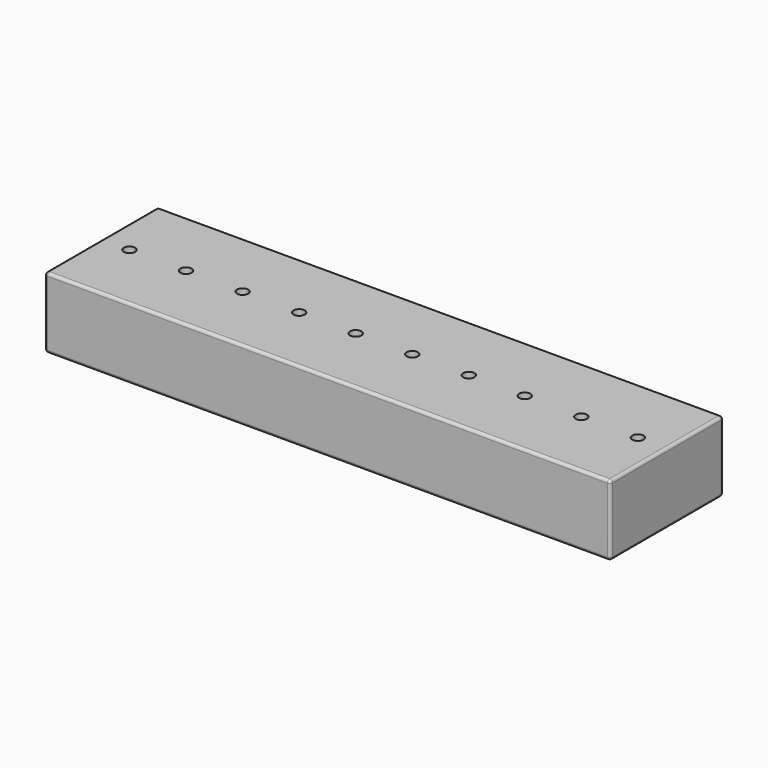
from build123d import *

# Parameters (mm, degrees)
F0_W     = 101.6
F0_H     = 25.4
F0_R     = 1.016
F1_DEPTH = 12.7
F2_R     = 0.508


with BuildPart() as f1:
    # F0 (on Top) → F1 (new body)
    with BuildSketch(Plane.XY):
        with Locations((-11.150051, 5.733814)):
            Rectangle(F0_W, F0_H)
        with Locations((-56.870051, 5.733814)):
            Circle(F0_R, mode=Mode.SUBTRACT)
        with Locations((-46.710051, 5.733814)):
            Circle(F0_R, mode=Mode.SUBTRACT)
        with Locations((-36.550051, 5.733814)):
            Circle(F0_R, mode=Mode.SUBTRACT)
        with Locations((-26.390051, 5.733814)):
            Circle(F0_R, mode=Mode.SUBTRACT)
        with Locations((-16.230051, 5.733814)):
            Circle(F0_R, mode=Mode.SUBTRACT)
        with Locations((-6.070051, 5.733814)):
            Circle(F0_R, mode=Mode.SUBTRACT)
        with Locations((4.089949, 5.733814)):
            Circle(F0_R, mode=Mode.SUBTRACT)
        with Locations((14.131892, 5.733814)):
            Circle(F0_R, mode=Mode.SUBTRACT)
        with Locations((24.291892, 5.733814)):
            Circle(F0_R, mode=Mode.SUBTRACT)
        with Locations((34.451892, 5.733814)):
            Circle(F0_R, mode=Mode.SUBTRACT)
    extrude(amount=-F1_DEPTH)

    # F2
    f2_edges = [f1.edges().sort_by_distance(p)[0] for p in [
        (-11.150051, 18.433814, 0),
        (39.649949, 5.733814, 0),
        (-11.150051, -6.966186, 0),
        (-61.950051, 5.733814, 0),
        (-61.950051, -6.966186, -6.35),
        (39.649949, -6.966186, -6.35),
        (39.649949, 18.433814, -6.35),
        (-61.950051, 18.433814, -6.35),
        (39.649949, 5.733814, -12.7),
        (-11.150051, 18.433814, -12.7),
        (-61.950051, 5.733814, -12.7),
        (-11.150051, -6.966186, -12.7),
    ]]
    fillet(f2_edges, radius=F2_R)


solid = f1.part
